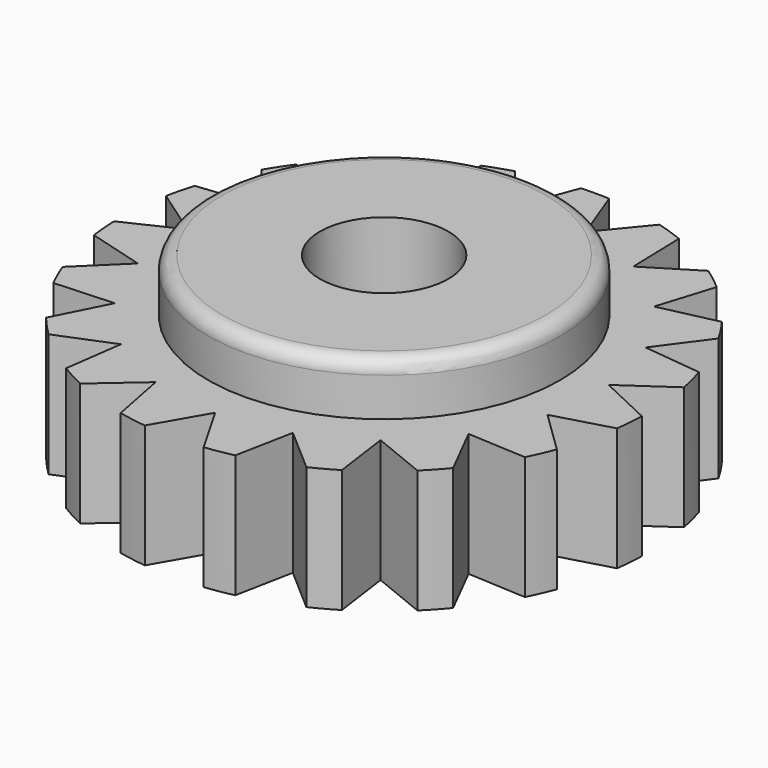
from build123d import *

# Parameters (mm, degrees)
F0_R     = 5
F1_DEPTH = 3.5
F2_DEPTH = 5
F4_D     = 3.65
F4_DEPTH = 4
F4_TIP   = 1.0965706297
F5_R     = 0.4


with BuildPart() as f1:
    # F0 (on Top) → F1 (new body)
    with BuildSketch(Plane.XY):
        with BuildLine():
            Line((5.9820292349, 0.4956850747), (7.3584798307, 1.4500946799))
            ThreePointArc((7.3584798307, 1.4500946799), (7.2705019945, 1.8411411536), (7.1617586425, 2.2269290844))
            Line((7.1617586425, 2.2269290844), (5.4969577101, 2.4111892074))
            Line((5.4969577101, 2.4111892074), (6.4889321237, 3.7608190456))
            ThreePointArc((6.4889321237, 3.7608190456), (6.278748587, 4.1021111859), (6.0506321133, 4.4316871538))
            Line((6.0506321133, 4.4316871538), (4.4162055233, 4.0654035761))
            Line((4.4162055233, 4.0654035761), (4.916207935, 5.6640003125))
            ThreePointArc((4.916207935, 5.6640003125), (4.6065953452, 5.9185538205), (4.2838257094, 6.1562031555))
            Line((4.2838257094, 6.1562031555), (2.8568889436, 5.279068386))
            Line((2.8568889436, 5.279068386), (2.8107363336, 6.9533992596))
            ThreePointArc((2.8107363336, 6.9533992596), (2.435246019, 7.0936293128), (2.0528003195, 7.2135990219))
            Line((2.0528003195, 7.2135990219), (0.9879841176, 5.9206642232))
            Line((0.9879841176, 5.9206642232), (0.4006778375, 7.4892895037))
            ThreePointArc((0.4006778375, 7.4892895037), (0, 7.5), (-0.4006778375, 7.4892895037))
            Line((-0.4006778375, 7.4892895037), (-0.9879841176, 5.9206642232))
            Line((-0.9879841176, 5.9206642232), (-2.0528003195, 7.2135990219))
            ThreePointArc((-2.0528003195, 7.2135990219), (-2.435246019, 7.0936293128), (-2.8107363336, 6.9533992596))
            Line((-2.8107363336, 6.9533992596), (-2.8568889436, 5.279068386))
            Line((-2.8568889436, 5.279068386), (-4.2838257094, 6.1562031555))
            ThreePointArc((-4.2838257094, 6.1562031555), (-4.6065953452, 5.9185538205), (-4.916207935, 5.6640003125))
            Line((-4.916207935, 5.6640003125), (-4.4162055233, 4.0654035761))
            Line((-4.4162055233, 4.0654035761), (-6.0506321133, 4.4316871538))
            ThreePointArc((-6.0506321133, 4.4316871538), (-6.278748587, 4.1021111859), (-6.4889321237, 3.7608190456))
            Line((-6.4889321237, 3.7608190456), (-5.4969577101, 2.4111892074))
            Line((-5.4969577101, 2.4111892074), (-7.1617586425, 2.2269290844))
            ThreePointArc((-7.1617586425, 2.2269290844), (-7.2705019945, 1.8411411536), (-7.3584798307, 1.4500946799))
            Line((-7.3584798307, 1.4500946799), (-5.9820292349, 0.4956850747))
            Line((-5.9820292349, 0.4956850747), (-7.4967974966, -0.2191513057))
            ThreePointArc((-7.4967974966, -0.2191513057), (-7.4743836976, -0.619345091), (-7.4306220695, -1.0177699448))
            Line((-7.4306220695, -1.0177699448), (-5.8188550714, -1.4735342273))
            Line((-5.8188550714, -1.4735342273), (-7.0194420172, -2.6414832514))
            ThreePointArc((-7.0194420172, -2.6414832514), (-6.8682999499, -3.0127156849), (-6.697541109, -3.3753434037))
            Line((-6.697541109, -3.3753434037), (-5.025117672, -3.2830732315))
            Line((-5.025117672, -3.2830732315), (-5.7814210773, -4.7775694999))
            ThreePointArc((-5.7814210773, -4.7775694999), (-5.51792933, -5.0796117872), (-5.2386776463, -5.367146031))
            Line((-5.2386776463, -5.367146031), (-3.6868308001, -4.7368403089))
            Line((-3.6868308001, -4.7368403089), (-3.9168934558, -6.3959319615))
            ThreePointArc((-3.9168934558, -6.3959319615), (-3.5696054478, -6.596053134), (-3.2121221742, -6.7773351059))
            Line((-3.2121221742, -6.7773351059), (-1.949018604, -5.6772972392))
            Line((-1.949018604, -5.6772972392), (-1.6279096514, -7.321195952))
            ThreePointArc((-1.6279096514, -7.321195952), (-1.2344594271, -7.3977097755), (-0.8374834233, -7.4530947609))
            Line((-0.8374834233, -7.4530947609), (0, -6.0025309213))
            Line((0, -6.0025309213), (0.8374834233, -7.4530947609))
            ThreePointArc((0.8374834233, -7.4530947609), (1.2344594271, -7.3977097755), (1.6279096514, -7.321195952))
            Line((1.6279096514, -7.321195952), (1.949018604, -5.6772972392))
            Line((1.949018604, -5.6772972392), (3.2121221742, -6.7773351059))
            ThreePointArc((3.2121221742, -6.7773351059), (3.5696054478, -6.596053134), (3.9168934558, -6.3959319615))
            Line((3.9168934558, -6.3959319615), (3.6868308001, -4.7368403089))
            Line((3.6868308001, -4.7368403089), (5.2386776463, -5.367146031))
            ThreePointArc((5.2386776463, -5.367146031), (5.51792933, -5.0796117872), (5.7814210773, -4.7775694999))
            Line((5.7814210773, -4.7775694999), (5.025117672, -3.2830732315))
            Line((5.025117672, -3.2830732315), (6.697541109, -3.3753434037))
            ThreePointArc((6.697541109, -3.3753434037), (6.8682999499, -3.0127156849), (7.0194420172, -2.6414832514))
            Line((7.0194420172, -2.6414832514), (5.8188550714, -1.4735342273))
            Line((5.8188550714, -1.4735342273), (7.4306220695, -1.0177699448))
            ThreePointArc((7.4306220695, -1.0177699448), (7.4743836976, -0.619345091), (7.4967974966, -0.2191513057))
            Line((7.4967974966, -0.2191513057), (5.9820292349, 0.4956850747))
        make_face()
        Circle(F0_R, mode=Mode.SUBTRACT)
    extrude(amount=F1_DEPTH)

    # F0 (on Top) → F2 (join)
    with BuildSketch(Plane.XY):
        Circle(F0_R)
    extrude(amount=F2_DEPTH)

    # F4
    with Locations(Plane.XY.offset(5)):
        with Locations((0, 0)):
            Hole(F4_D / 2, depth=F4_DEPTH)
            with Locations((0, 0, -(F4_DEPTH + F4_TIP / 2))):  # 118° drill point
                Cone(0, F4_D / 2, F4_TIP, mode=Mode.SUBTRACT)

    # F5
    f5_edges = [f1.edges().sort_by_distance(p)[0] for p in [
        (-5, 0, 5),
    ]]
    fillet(f5_edges, radius=F5_R)


solid = f1.part
